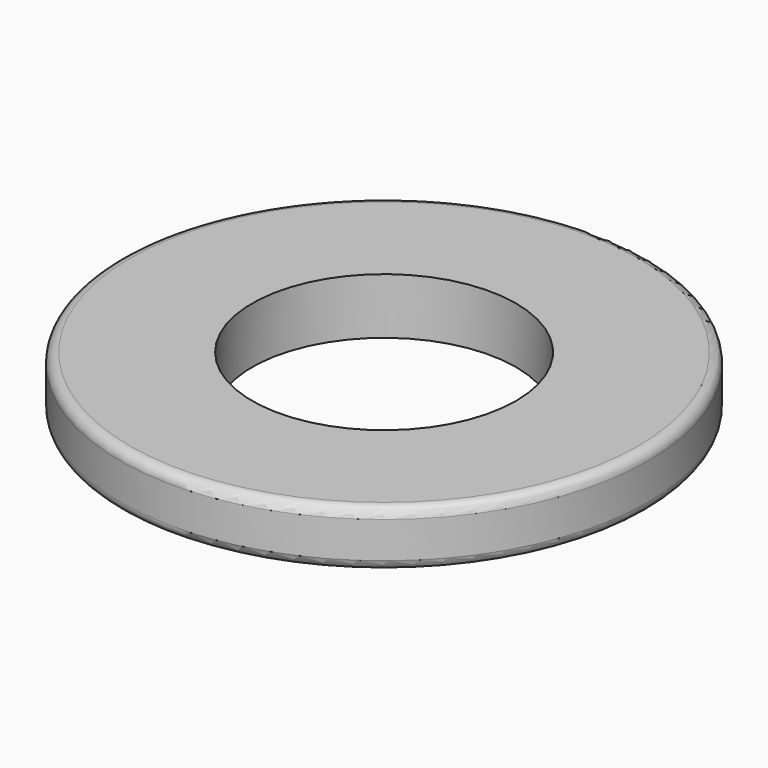
from build123d import *

# Parameters (mm, degrees)
CYLINDER001_R     = 4
CYLINDER001_DEPTH = 1.7
CYLINDER_R        = 8
CYLINDER_DEPTH    = 1.7
FILLET_R          = 0.3


with BuildPart() as cilindroint:
    # Cylinder001 → Cylinder001 (new body)
    with BuildSketch(Plane.XY):
        Circle(CYLINDER001_R)
    extrude(amount=CYLINDER001_DEPTH)


with BuildPart() as obj1:
    # Cylinder → Cylinder (new body)
    with BuildSketch(Plane.XY):
        Circle(CYLINDER_R)
    extrude(amount=CYLINDER_DEPTH)

    # Cut: cut cilindroInt
    add(cilindroint.part, mode=Mode.SUBTRACT)

    # Fillet
    fillet_edges = [obj1.edges().sort_by_distance(p)[0] for p in [
        (-8, 0, 1.7),
        (-8, 0, 0),
    ]]
    fillet(fillet_edges, radius=FILLET_R)


solid = obj1.part
